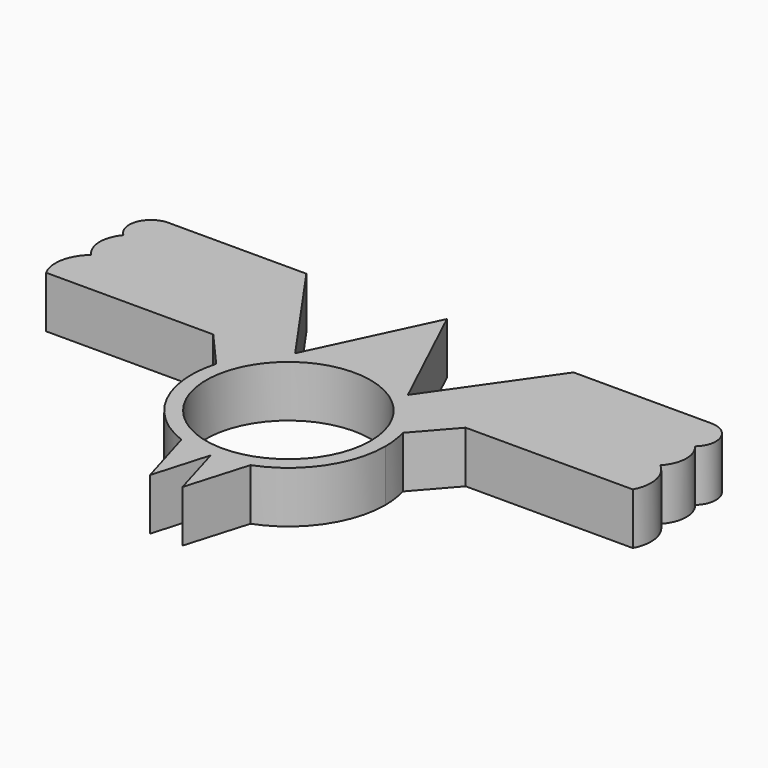
from build123d import *

# Parameters (mm, degrees)
F0_R     = 11.15
F1_DEPTH = 7


with BuildPart() as f1:
    # F0 (on Top) → F1 (new body)
    with BuildSketch(Plane.XY):
        with BuildLine():
            ThreePointArc((4.678303, -12.28967), (10.826869, -7.463338), (13.15, 0))
            ThreePointArc((13.15, 0), (13.024969, 1.809058), (12.652252, 3.583715))
            ThreePointArc((12.652252, 3.583715), (11.573582, 6.242972), (9.943738, 8.604916))
            ThreePointArc((9.943738, 8.604916), (8.854571, 9.722092), (7.640751, 10.702403))
            ThreePointArc((7.640751, 10.702403), (5.80718, 11.798269), (3.820376, 12.582815))
            ThreePointArc((3.820376, 12.582815), (0, 13.15), (-3.820376, 12.582815))
            ThreePointArc((-3.820376, 12.582815), (-5.80718, 11.798269), (-7.640751, 10.702403))
            ThreePointArc((-7.640751, 10.702403), (-8.854571, 9.722092), (-9.943738, 8.604916))
            ThreePointArc((-9.943738, 8.604916), (-11.573582, 6.242972), (-12.652252, 3.583715))
            ThreePointArc((-12.652252, 3.583715), (-11.750665, -5.902913), (-4.678303, -12.28967))
            ThreePointArc((-4.678303, -12.28967), (-2.378376, -12.933129), (0, -13.15))
            ThreePointArc((0, -13.15), (2.378376, -12.933129), (4.678303, -12.28967))
        make_face()
        Circle(F0_R, mode=Mode.SUBTRACT)
        with BuildLine():
            ThreePointArc((9.943738, 8.604916), (11.573582, 6.242972), (12.652252, 3.583715))
            Line((12.652252, 3.583715), (17.106719, 8.653383))
            Line((17.106719, 8.653383), (39.768285, 8.653383))
            ThreePointArc((39.768285, 8.653383), (40.274049, 11.944779), (38.578644, 14.810907))
            Line((38.578644, 14.810907), (14.483897, 14.810907))
            Line((14.483897, 14.810907), (9.943738, 8.604916))
        make_face()
        with BuildLine():
            Line((2.195475, -20.705199), (4.678303, -12.28967))
            ThreePointArc((4.678303, -12.28967), (2.378376, -12.933129), (0, -13.15))
            Line((0, -13.15), (2.195475, -20.705199))
        make_face()
        with BuildLine():
            ThreePointArc((7.640751, 10.702403), (8.854571, 9.722092), (9.943738, 8.604916))
            Line((9.943738, 8.604916), (14.483897, 14.810907))
            Line((14.483897, 14.810907), (18.108772, 19.765785))
            Line((18.108772, 19.765785), (36.809336, 19.765785))
            ThreePointArc((36.809336, 19.765785), (37.842544, 19.952035), (38.745681, 20.487337))
            ThreePointArc((38.745681, 20.487337), (39.582036, 23.757941), (36.809336, 25.683682))
            Line((36.809336, 25.683682), (18.108772, 25.683682))
            Line((18.108772, 25.683682), (7.640751, 10.702403))
        make_face()
        with BuildLine():
            Line((-2.195475, -20.705199), (0, -13.15))
            ThreePointArc((0, -13.15), (-2.378376, -12.933129), (-4.678303, -12.28967))
            Line((-4.678303, -12.28967), (-2.195475, -20.705199))
        make_face()
        with BuildLine():
            ThreePointArc((3.820376, 12.582815), (5.80718, 11.798269), (7.640751, 10.702403))
            Line((7.640751, 10.702403), (0, 26.867265))
            Line((0, 26.867265), (-7.640751, 10.702403))
            ThreePointArc((-7.640751, 10.702403), (-5.80718, 11.798269), (-3.820376, 12.582815))
            Line((-3.820376, 12.582815), (0, 20.475931))
            Line((0, 20.475931), (3.820376, 12.582815))
        make_face()
        with BuildLine():
            Line((18.108772, 19.765785), (14.483897, 14.810907))
            Line((14.483897, 14.810907), (38.578644, 14.810907))
            ThreePointArc((38.578644, 14.810907), (39.761045, 17.616785), (38.745681, 20.487337))
            ThreePointArc((38.745681, 20.487337), (37.842544, 19.952035), (36.809336, 19.765785))
            Line((36.809336, 19.765785), (18.108772, 19.765785))
        make_face()
        with BuildLine():
            Line((-17.106719, 8.653383), (-12.652252, 3.583715))
            ThreePointArc((-12.652252, 3.583715), (-11.573582, 6.242972), (-9.943738, 8.604916))
            Line((-9.943738, 8.604916), (-14.483897, 14.810907))
            Line((-14.483897, 14.810907), (-38.578644, 14.810907))
            ThreePointArc((-38.578644, 14.810907), (-40.274049, 11.944779), (-39.768285, 8.653383))
            Line((-39.768285, 8.653383), (-17.106719, 8.653383))
        make_face()
        with BuildLine():
            ThreePointArc((-9.943738, 8.604916), (-8.854571, 9.722092), (-7.640751, 10.702403))
            Line((-7.640751, 10.702403), (-18.108772, 25.683682))
            Line((-18.108772, 25.683682), (-36.809336, 25.683682))
            ThreePointArc((-36.809336, 25.683682), (-39.582036, 23.757941), (-38.745681, 20.487337))
            ThreePointArc((-38.745681, 20.487337), (-37.842544, 19.952035), (-36.809336, 19.765785))
            Line((-36.809336, 19.765785), (-18.108772, 19.765785))
            Line((-18.108772, 19.765785), (-14.483897, 14.810907))
            Line((-14.483897, 14.810907), (-9.943738, 8.604916))
        make_face()
        with BuildLine():
            Line((-38.578644, 14.810907), (-14.483897, 14.810907))
            Line((-14.483897, 14.810907), (-18.108772, 19.765785))
            Line((-18.108772, 19.765785), (-36.809336, 19.765785))
            ThreePointArc((-36.809336, 19.765785), (-37.842544, 19.952035), (-38.745681, 20.487337))
            ThreePointArc((-38.745681, 20.487337), (-39.761045, 17.616785), (-38.578644, 14.810907))
        make_face()
        with BuildLine():
            ThreePointArc((-3.820376, 12.582815), (0, 13.15), (3.820376, 12.582815))
            Line((3.820376, 12.582815), (0, 20.475931))
            Line((0, 20.475931), (-3.820376, 12.582815))
        make_face()
    extrude(amount=F1_DEPTH)


solid = f1.part
